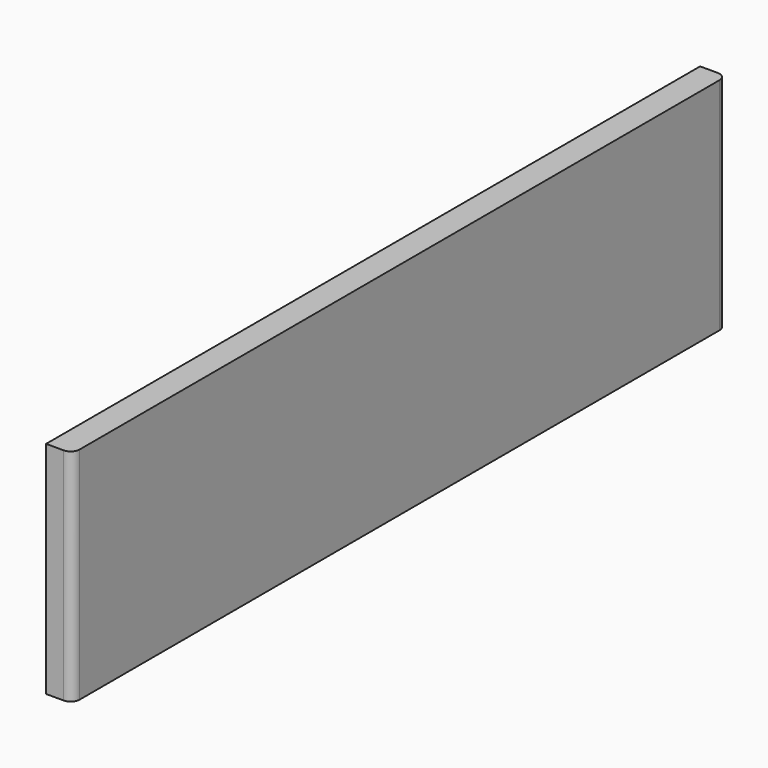
from build123d import *

# Parameters (mm, degrees)
F0_W     = 185.6
F0_H     = 50
F1_DEPTH = 6
F2_R     = 2


with BuildPart() as f1:
    # F0 (on Right) → F1 (new body)
    with BuildSketch(Plane.YZ):
        Rectangle(F0_W, F0_H)
    extrude(amount=F1_DEPTH)

    # F2
    f2_edges = [f1.edges().sort_by_distance(p)[0] for p in [
        (6, -92.8, 0),
        (6, 92.8, 0),
    ]]
    fillet(f2_edges, radius=F2_R)


solid = f1.part
